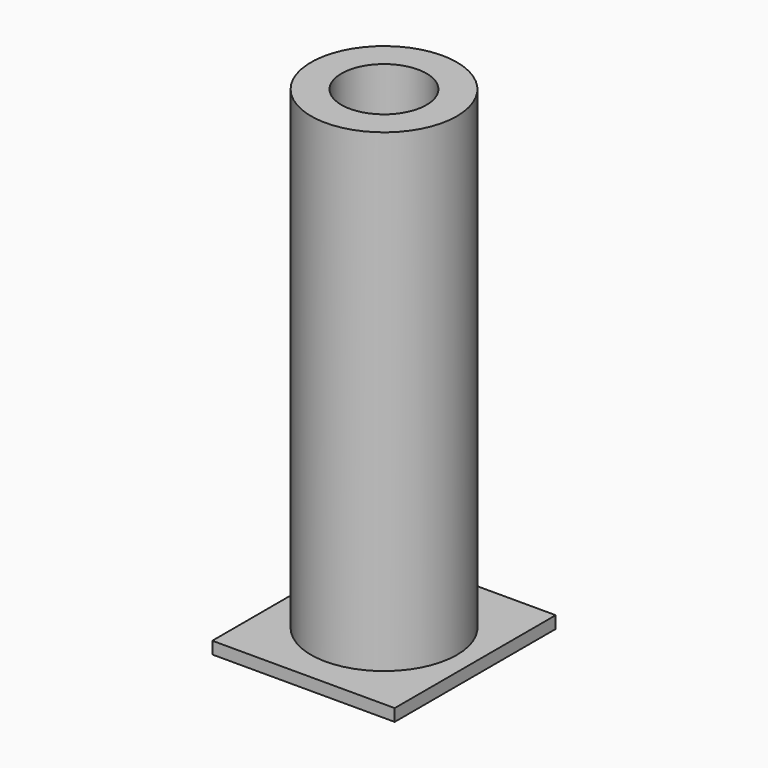
from build123d import *

# Parameters (mm, degrees)
F0_W     = 30
F0_H     = 33.1
F1_DEPTH = 2
F2_W     = 12
F2_H     = 78


with BuildPart() as f1:
    # F0 (on Top) → F1 (new body)
    with BuildSketch(Plane.XY):
        Rectangle(F0_W, F0_H)
    extrude(amount=F1_DEPTH)

    # F2 (on Front) → F3 (revolve)
    with BuildSketch(Plane.XZ):
        with Locations((6, 41)):
            Rectangle(F2_W, F2_H)
    revolve(axis=Axis((0, 0, 40), (0, 0, 1)))

    # F4 (on Front) → F5 (revolve, cut)
    with BuildSketch(Plane.XZ):
        with BuildLine():
            Line((0, 0), (0, 80))
            Line((0, 80), (-7, 80))
            Line((-7, 80), (-7, 56.435473))
            add(Edge.make_bspline(
                [(-7, 56.435473), (-7, 43.904641), (-1, 40), (-1, 17.385136)],
                knots=[0, 0, 0, 0, 39.508592, 39.508592, 39.508592, 39.508592], degree=3))
            Line((-1, 17.385136), (-1, 0))
            Line((-1, 0), (0, 0))
        make_face()
    revolve(axis=Axis((0, 0, 40), (0, 0, -1)), mode=Mode.SUBTRACT)


solid = f1.part
